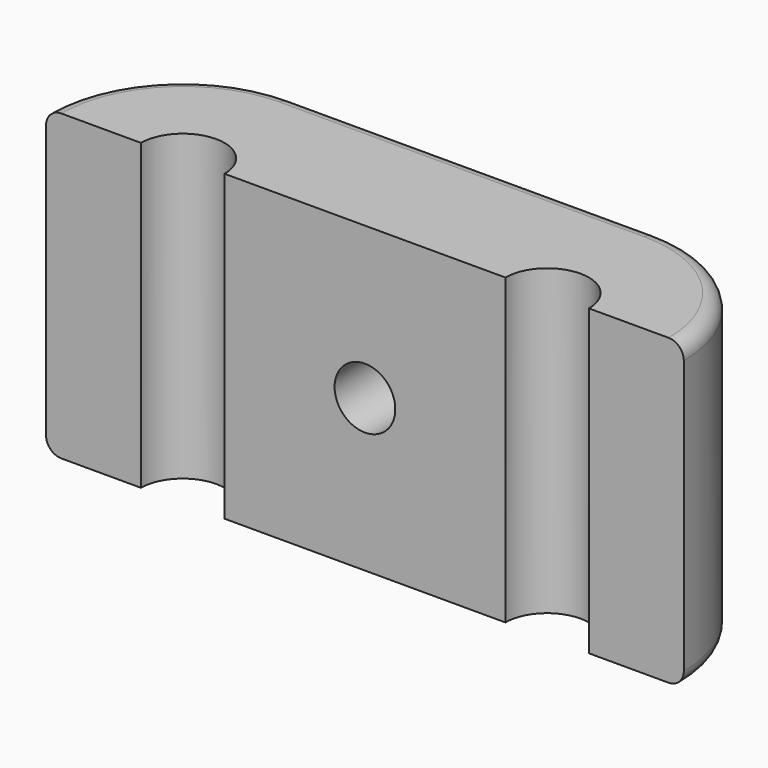
from build123d import *

# Parameters (mm, degrees)
PAD_DEPTH       = 20
SKETCH001_R     = 5
POCKET_DEPTH    = 4
SKETCH002_R     = 2
POCKET001_DEPTH = 5
FILLET_R        = 1
FILLET001_R     = 1


with BuildPart() as part:
    # Sketch → Pad (new body)
    with BuildSketch(Plane.XY):
        with BuildLine():
            Line((0, 0), (0, 9))
            Line((0, 9), (-12, 9))
            ThreePointArc((-12, 9), (-18.363961, 6.363961), (-21, 0))
            Line((-21, 0), (-14.75, 0))
            ThreePointArc((-9.25, 0), (-12, 2.75), (-14.75, 0))
            Line((-9.25, 0), (0, 0))
        make_face()
    extrude(amount=PAD_DEPTH)

    # Mirrored: part across YZ


with BuildPart() as part_1:
    add(part.part)
    add(part.part.mirror(Plane.YZ))

    # Sketch001 (on Face1 of Mirrored) → Pocket (cut)
    with BuildSketch(Plane(origin=(0, 9, 0), x_dir=(-1, 0, 0), z_dir=(0, 1, 0))):
        with Locations((0, 10)):
            Circle(SKETCH001_R)
    extrude(amount=-POCKET_DEPTH, mode=Mode.SUBTRACT)

    # Sketch002 (on Face13 of Pocket) → Pocket001 (cut)
    with BuildSketch(Plane(origin=(0, 5, 0), x_dir=(-1, 0, 0), z_dir=(0, 1, 0))):
        with Locations((0, 10)):
            Circle(SKETCH002_R)
    extrude(amount=-POCKET001_DEPTH, mode=Mode.SUBTRACT)

    # Fillet
    fillet_edges = [part_1.edges().sort_by_distance(p)[0] for p in [
        (-18.363961, 6.363961, 20),
        (-6, 9, 20),
        (6, 9, 20),
        (18.363961, 6.363961, 20),
        (-18.363961, 6.363961, 0),
        (-6, 9, 0),
        (6, 9, 0),
        (18.363961, 6.363961, 0),
    ]]
    fillet(fillet_edges, radius=FILLET_R)

    # Fillet001
    fillet001_edges = [part_1.edges().sort_by_distance(p)[0] for p in [
        (5, 9, 10),
    ]]
    fillet(fillet001_edges, radius=FILLET001_R)


solid = part_1.part
